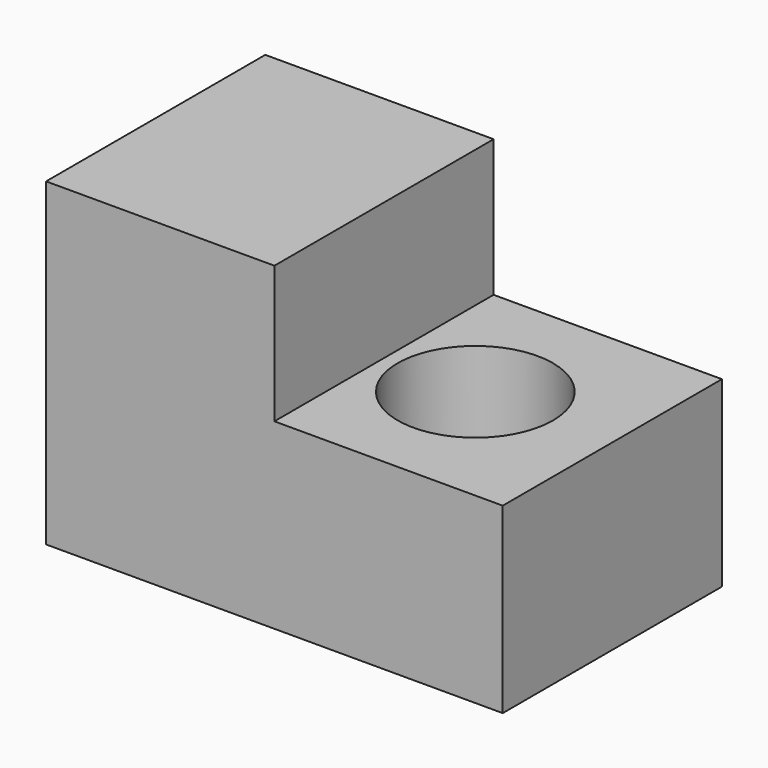
from build123d import *

# Parameters (mm, degrees)
F2_DEPTH = 381
F4_R     = 215.9
F5_DEPTH = 508


with BuildPart() as f2:
    # F0 (on Front) → F2 (new body)
    with BuildSketch(Plane.XZ):
        Polygon((-633.137938, 457.408508), (-633.137938, -431.591492), (636.862062, -431.591492), (636.862062, 76.408508), (1.862062, 76.408508), (1.862062, 457.408508), align=None)
    extrude(amount=F2_DEPTH)

    # F3: F2 across face


with BuildPart() as f2_1:
    add(f2.part)
    add(f2.part.mirror(Plane(origin=(-84.728847, 0, -56.364219), x_dir=(1, 0, 0), z_dir=(0, 1, 0))))

    # F4 (on face) → F5 (cut, through all)
    with BuildSketch(Plane(origin=(0, 0, -431.591492), x_dir=(1, 0, 0), z_dir=(0, 0, -1))):
        with Locations((255.862062, 0)):
            Circle(F4_R)
    extrude(amount=-F5_DEPTH, mode=Mode.SUBTRACT)


solid = f2_1.part
